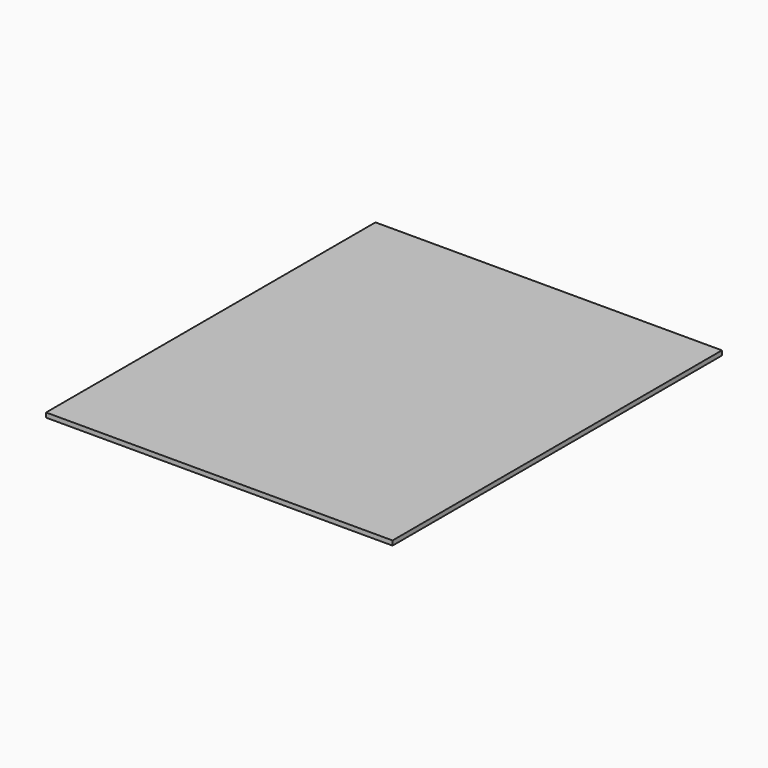
from build123d import *

# Parameters (mm, degrees)
SKETCH_W  = 454
SKETCH_H  = 539.5
PAD_DEPTH = 6


with BuildPart() as part:
    # Sketch → Pad (new body)
    with BuildSketch(Plane.XY):
        Rectangle(SKETCH_W, SKETCH_H)
    extrude(amount=PAD_DEPTH)


solid = part.part
